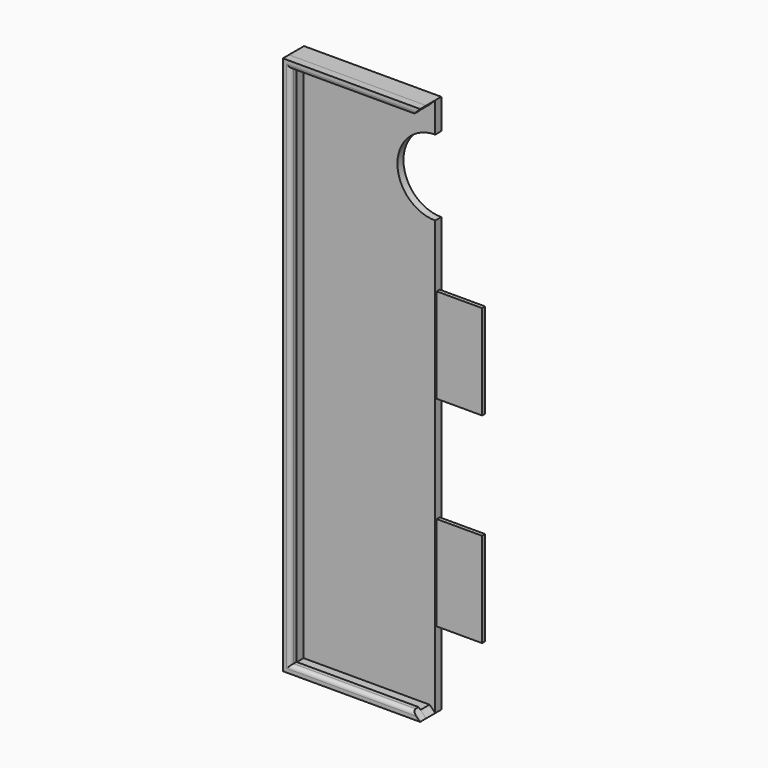
from build123d import *

# Parameters (mm, degrees)
F1_DEPTH = 1
F0_W     = 12
F0_H     = 25
F2_DEPTH = 0.5
F4_DEPTH = 3
F6_DEPTH = 2
F7_R     = 1


with BuildPart() as f1:
    # F0 (on Front) → F1 (new body, symmetric)
    with BuildSketch(Plane.XZ):
        with BuildLine():
            Line((2.199701, 71.625195), (-34.100299, 71.625195))
            Line((-34.100299, 71.625195), (-34.100299, -71.074805))
            Line((-34.100299, -71.074805), (2.199701, -71.074805))
            Line((2.199701, -71.074805), (2.199701, -51.074805))
            Line((2.199701, -51.074805), (2.199701, -26.074805))
            Line((2.199701, -26.074805), (2.199701, 1.925195))
            Line((2.199701, 1.925195), (2.199701, 26.925195))
            Line((2.199701, 26.925195), (2.199701, 43.625195))
            ThreePointArc((2.199701, 43.625195), (-7.800299, 53.625195), (2.199701, 63.625195))
            Line((2.199701, 63.625195), (2.199701, 71.625195))
        make_face()
    extrude(amount=F1_DEPTH, both=True)

    # F0 (on Front) → F2 (join, symmetric)
    with BuildSketch(Plane.XZ):
        with Locations((8.199701, 14.425195)):
            Rectangle(F0_W, F0_H)
        with Locations((8.199701, -38.574805)):
            Rectangle(F0_W, F0_H)
    extrude(amount=F2_DEPTH, both=True)

    # F3 (on face) → F4 (join)
    with BuildSketch(Plane.XZ.offset(1)):
        Polygon((-34.100299, -71.074805), (2.199701, -71.074805), (0.699701, -69.574805), (-32.600299, -69.574805), (-32.600299, 70.125195), (0.699701, 70.125195), (2.199701, 71.625195), (-34.100299, 71.625195), align=None)
    extrude(amount=F4_DEPTH)


with BuildPart() as f6:
    # F5 (on face) → F6 (new body)
    with BuildSketch(Plane.XZ.offset(4)):
        Polygon((-34.100299, -71.074805), (2.199701, -71.074805), (1.1997, -70.074804), (-33.100299, -70.074804), (-33.100299, 70.625195), (1.199701, 70.625195), (2.199701, 71.625195), (-34.100299, 71.625195), align=None)
        Polygon((-33.100299, -70.074804), (1.1997, -70.074804), (0.199699, -69.074803), (-32.100299, -69.074803), (-32.100299, 69.625195), (0.199701, 69.625195), (1.199701, 70.625195), (-33.100299, 70.625195), align=None)
    extrude(amount=F6_DEPTH)

    # F7
    f7_edges = [f6.edges().sort_by_distance(p)[0] for p in [
        (-32.100299, -6, 0.275196),
        (-15.950299, -6, 69.625195),
        (-15.9503, -6, -69.074803),
    ]]
    fillet(f7_edges, radius=F7_R)


solid = Compound([f1.part, f6.part])
